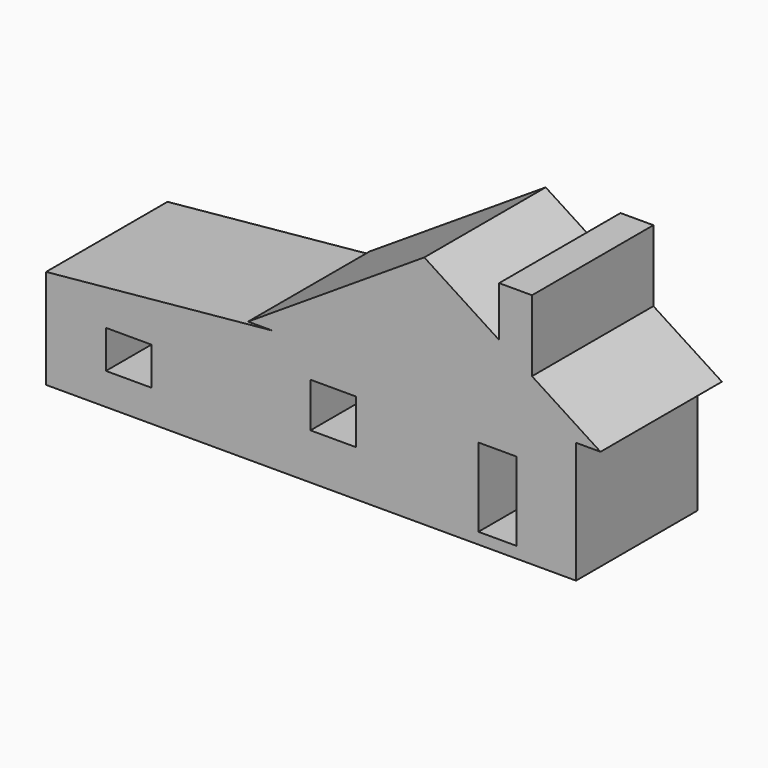
from build123d import *

# Parameters (mm, degrees)
F0_W     = 909.884095192
F0_H     = 895.8497047424
F0_W_2   = 914.4
F0_H_2   = 762
F0_W_3   = 4548.1346626282
F0_H_3   = 226.5457805634
F1_DEPTH = 3048


with BuildPart() as f1:
    # F0 (on Front) → F1 (new body)
    with BuildSketch(Plane.XZ):
        Polygon((3048, 0), (0, 0), (-3048, 0), (-3048, -265.2795314789), (-3048, -2211.8542194366), (1087.2766971588, -2211.8542194366), (1087.2766971588, -633.0450773239), (1847.0970392227, -633.0450773239), (1847.0970392227, -2211.8542194366), (3048, -2211.8542194366), align=None)
        with Locations((-1831.2367796898, -1067.5588846207)):
            Rectangle(F0_W, F0_H, mode=Mode.SUBTRACT)
        Polygon((0, 1981.2), (0, 0), (3048, 0), align=None)
        Polygon((-3048, 0), (0, 0), (0, 1981.2), align=None)
        Polygon((-3539.3431186676, 0), (-3048, 0), (0, 1981.2), (0, 2286), align=None)
        Polygon((-3048, -265.2795314789), (-3048, 0), (-7596.1346626282, -439.9324449932), (-7596.1346626282, -705.2119764721), align=None)
        Polygon((0, 1981.2), (3048, 0), (3539.3376, 0), (2163.161277771, 888.849674192), (1503.2346424968, 1315.0854444776), (0, 2286), align=None)
        Polygon((-3048, -2211.8542194366), (-3048, -265.2795314789), (-7596.1346626282, -705.2119764721), (-7596.1346626282, -2211.8542194366), align=None)
        with Locations((-5937.207749176, -1419.3884553909)):
            Rectangle(F0_W_2, F0_H_2, mode=Mode.SUBTRACT)
        Polygon((3048, -2438.4), (3048, -2211.8542194366), (1847.0970392227, -2211.8542194366), (1773.0509563446, -2211.8542194366), (1163.4509563446, -2211.8542194366), (1087.2766971588, -2211.8542194366), (-3048, -2211.8542194366), (-3048, -2438.4), align=None)
        with Locations((-5322.0673313141, -2325.1271097183)):
            Rectangle(F0_W_3, F0_H_3)
        Polygon((1503.2346424968, 1315.0854444776), (2163.161277771, 888.849674192), (2163.161277771, 2320.4097747803), (1503.2346424968, 2320.4097747803), align=None)
    extrude(amount=F1_DEPTH)


solid = f1.part
